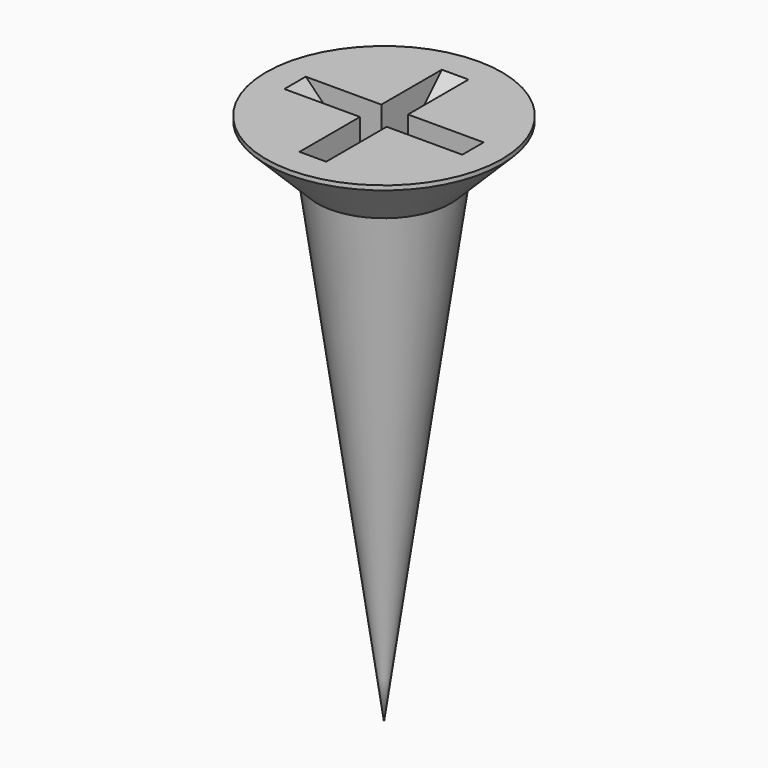
from build123d import *

# Parameters (mm, degrees)
POCKET002_DEPTH       = 0.3
POLARPATTERN001_COUNT = 2
POLARPATTERN001_ANGLE = 90


with BuildPart() as part:
    # Sketch015 → Revolution001 (revolve)
    with BuildSketch(Plane.XZ):
        Polygon((0, 0), (0, -12), (1.5, -1.25), (2.65, -0.1), (2.65, 0), align=None)
    revolve(axis=Axis((0, 0, 0), (0, 0, 1)))

    # Sketch016 → Pocket002 (cut, symmetric)
    with BuildSketch(Plane.XZ):
        Polygon((-2, 0), (0, -2), (2, 0), align=None)
    pocket002 = extrude(amount=POCKET002_DEPTH, both=True, mode=Mode.SUBTRACT)

    # PolarPattern001: Pocket002 ×2 about axis
    polarpattern001_axis = Axis((0, 0, 0), (0, 0, 1))
    for i in range(1, POLARPATTERN001_COUNT):
        add(pocket002.rotate(polarpattern001_axis, i * POLARPATTERN001_ANGLE / (POLARPATTERN001_COUNT - 1)), mode=Mode.SUBTRACT)


with BuildPart() as part_1:
    # Body012 placement: moved
    add(part.part.moved(Location((-20, -20, 11.5))))


solid = part_1.part
